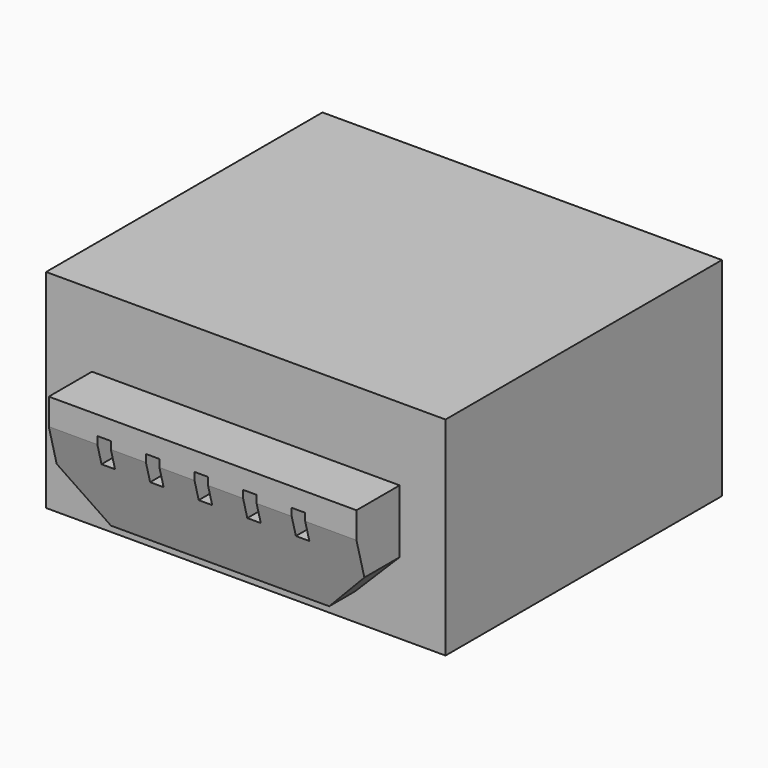
from build123d import *

# Parameters (mm, degrees)
BOX039_W               = 7.4
BOX039_H               = 1
BOX039_DEPTH           = 3.95
BOX038_W               = 6.7
BOX038_H               = 2
BOX038_DEPTH           = 0.45
CYLINDER008_R          = 0.45
CYLINDER008_DEPTH      = 0.4
CYLINDER_R             = 0.45
CYLINDER_DEPTH         = 0.4
BOX028_W               = 7.4
BOX028_H               = 7
BOX028_DEPTH           = 3.85
BOX037_W               = 0.25
BOX037_H               = 2.2
BOX037_DEPTH           = 0.5
BOX036_W               = 0.25
BOX036_H               = 2.2
BOX036_DEPTH           = 0.5
BOX035_W               = 0.25
BOX035_H               = 2.2
BOX035_DEPTH           = 0.5
BOX034_W               = 0.25
BOX034_H               = 2.2
BOX034_DEPTH           = 0.5
BOX033_W               = 0.25
BOX033_H               = 2.2
BOX033_DEPTH           = 0.5
BOX032_W               = 2
BOX032_H               = 3
BOX032_DEPTH           = 2
BOX032_PLACEMENT_ANGLE = 45
BOX031_W               = 2
BOX031_H               = 3
BOX031_DEPTH           = 2
BOX031_PLACEMENT_ANGLE = 45
BOX029_W               = 5.7
BOX029_H               = 1
BOX029_DEPTH           = 2
BOX029_PLACEMENT_ANGLE = 15
BOX030_W               = 5.7
BOX030_H               = 1
BOX030_DEPTH           = 2


with BuildPart() as cube031:
    # Box039 → Box039 (new body)
    with BuildSketch(Plane(origin=(0.15, 8.6, -0.1), x_dir=(1, 0, 0), z_dir=(0, 0, 1))):
        with Locations((3.7, 0.5)):
            Rectangle(BOX039_W, BOX039_H)
    extrude(amount=BOX039_DEPTH)


with BuildPart() as cube030:
    # Box038 → Box038 (new body)
    with BuildSketch(Plane(origin=(0.5, 7.7, -0.1), x_dir=(1, 0, 0), z_dir=(0, 0, 1))):
        with Locations((3.35, 1)):
            Rectangle(BOX038_W, BOX038_H)
    extrude(amount=BOX038_DEPTH)


with BuildPart() as cone001:
    # Cone001 → Cone001 (revolve)
    with BuildSketch(Plane(origin=(6.05, 5.9, -0.8), x_dir=(1, 0, 0), z_dir=(0, -1, 0))):
        Polygon((0, 0), (0.25, 0), (0.45, 0.4), (0, 0.4), align=None)
    revolve(axis=Axis((6.05, 5.9, -0.8), (0, 0, 1)))


with BuildPart() as fusion002:
    # Cylinder008 → Cylinder008 (new body)
    with BuildSketch(Plane(origin=(6.05, 5.9, -0.4), x_dir=(1, 0, 0), z_dir=(0, 0, 1))):
        Circle(CYLINDER008_R)
    extrude(amount=CYLINDER008_DEPTH)

    # Fusion002: union Cone001
    add(cone001.part)


with BuildPart() as cone:
    # Cone → Cone (revolve)
    with BuildSketch(Plane(origin=(1.65, 5.9, -0.8), x_dir=(1, 0, 0), z_dir=(0, -1, 0))):
        Polygon((0, 0), (0.25, 0), (0.45, 0.4), (0, 0.4), align=None)
    revolve(axis=Axis((1.65, 5.9, -0.8), (0, 0, 1)))


with BuildPart() as fusion:
    # Cylinder → Cylinder (new body)
    with BuildSketch(Plane(origin=(1.65, 5.9, -0.4), x_dir=(1, 0, 0), z_dir=(0, 0, 1))):
        Circle(CYLINDER_R)
    extrude(amount=CYLINDER_DEPTH)

    # Fusion: union Cone
    add(cone.part)


with BuildPart() as fusion004:
    # Box028 → Box028 (new body)
    with BuildSketch(Plane(origin=(0.15, 2.2, 0), x_dir=(1, 0, 0), z_dir=(0, 0, 1))):
        with Locations((3.7, 3.5)):
            Rectangle(BOX028_W, BOX028_H)
    extrude(amount=BOX028_DEPTH)

    # Fusion003: union Fusion
    add(fusion.part)

    # Fusion004: union Fusion002
    add(fusion002.part)


with BuildPart() as cube029:
    # Box037 → Box037 (new body)
    with BuildSketch(Plane(origin=(5.5, 0.1, 1.65), x_dir=(1, 0, 0), z_dir=(0, 0, 1))):
        with Locations((0.125, 1.1)):
            Rectangle(BOX037_W, BOX037_H)
    extrude(amount=BOX037_DEPTH)


with BuildPart() as cube028:
    # Box036 → Box036 (new body)
    with BuildSketch(Plane(origin=(4.6, 0.1, 1.65), x_dir=(1, 0, 0), z_dir=(0, 0, 1))):
        with Locations((0.125, 1.1)):
            Rectangle(BOX036_W, BOX036_H)
    extrude(amount=BOX036_DEPTH)


with BuildPart() as cube027:
    # Box035 → Box035 (new body)
    with BuildSketch(Plane(origin=(3.7, 0.1, 1.65), x_dir=(1, 0, 0), z_dir=(0, 0, 1))):
        with Locations((0.125, 1.1)):
            Rectangle(BOX035_W, BOX035_H)
    extrude(amount=BOX035_DEPTH)


with BuildPart() as cube026:
    # Box034 → Box034 (new body)
    with BuildSketch(Plane(origin=(2.8, 0.1, 1.65), x_dir=(1, 0, 0), z_dir=(0, 0, 1))):
        with Locations((0.125, 1.1)):
            Rectangle(BOX034_W, BOX034_H)
    extrude(amount=BOX034_DEPTH)


with BuildPart() as cube025:
    # Box033 → Box033 (new body)
    with BuildSketch(Plane(origin=(1.9, 0.1, 1.65), x_dir=(1, 0, 0), z_dir=(0, 0, 1))):
        with Locations((0.125, 1.1)):
            Rectangle(BOX033_W, BOX033_H)
    extrude(amount=BOX033_DEPTH)


with BuildPart() as cube024:
    # Box032 → Box032 (new body)
    with BuildSketch(Plane.XY):
        with Locations((1, 1.5)):
            Rectangle(BOX032_W, BOX032_H)
    extrude(amount=BOX032_DEPTH)


with BuildPart() as cube024_1:
    # Box032 placement: moved
    add(cube024.part.moved(Location((6.8, 0, -1.4))).rotate(Axis((6.8, 0, -1.4), (0, -1, 0)), BOX032_PLACEMENT_ANGLE))


with BuildPart() as cube023:
    # Box031 → Box031 (new body)
    with BuildSketch(Plane.XY):
        with Locations((1, 1.5)):
            Rectangle(BOX031_W, BOX031_H)
    extrude(amount=BOX031_DEPTH)


with BuildPart() as cube023_1:
    # Box031 placement: moved
    add(cube023.part.moved(Location((-0.5, 0, 0))).rotate(Axis((-0.5, 0, 0), (0, 1, 0)), BOX031_PLACEMENT_ANGLE))


with BuildPart() as cube021:
    # Box029 → Box029 (new body)
    with BuildSketch(Plane.XY):
        with Locations((2.85, 0.5)):
            Rectangle(BOX029_W, BOX029_H)
    extrude(amount=BOX029_DEPTH)


with BuildPart() as cube021_1:
    # Box029 placement: moved
    add(cube021.part.moved(Location((1, 0.65, 0.2))).rotate(Axis((1, 0.65, 0.2), (1, 0, 0)), BOX029_PLACEMENT_ANGLE))


with BuildPart() as plastic_guts:
    # Box030 → Box030 (new body)
    with BuildSketch(Plane(origin=(1, 1.2, 0.5), x_dir=(1, 0, 0), z_dir=(0, 0, 1))):
        with Locations((2.85, 0.5)):
            Rectangle(BOX030_W, BOX030_H)
    extrude(amount=BOX030_DEPTH)

    # Cut026: cut Cube021
    add(cube021_1.part, mode=Mode.SUBTRACT)

    # Cut027: cut Cube023
    add(cube023_1.part, mode=Mode.SUBTRACT)

    # Cut028: cut Cube024
    add(cube024_1.part, mode=Mode.SUBTRACT)

    # Cut029: cut Cube025
    add(cube025.part, mode=Mode.SUBTRACT)

    # Cut030: cut Cube026
    add(cube026.part, mode=Mode.SUBTRACT)

    # Cut031: cut Cube027
    add(cube027.part, mode=Mode.SUBTRACT)

    # Cut032: cut Cube028
    add(cube028.part, mode=Mode.SUBTRACT)

    # Cut033: cut Cube029
    add(cube029.part, mode=Mode.SUBTRACT)

    # Fusion005: union Fusion004
    add(fusion004.part)

    # Cut034: cut Cube030
    add(cube030.part, mode=Mode.SUBTRACT)

    # Cut035: cut Cube031
    add(cube031.part, mode=Mode.SUBTRACT)


solid = plastic_guts.part
